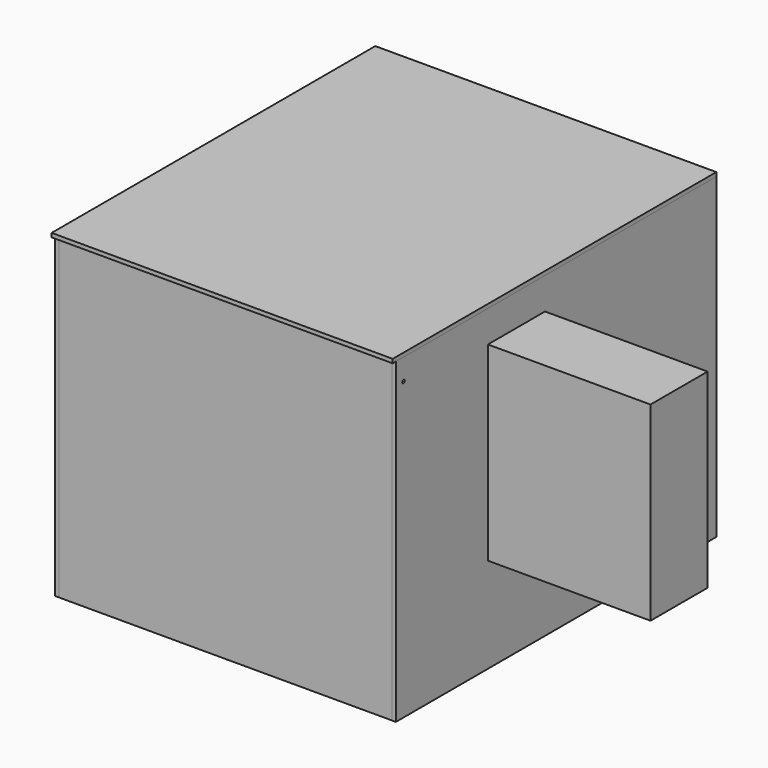
from build123d import *

# Parameters (mm, degrees)
F1_DEPTH  = 400
F3_DEPTH  = 5
F4_R      = 2
F5_DEPTH  = 5
F6_R      = 2
F7_DEPTH  = 5
F6_W      = 80
F6_H      = 230
F8_DEPTH  = 5
F6_W_2    = 89.9999934435
F6_H_2    = 239.9999934435
F9_DEPTH  = 200
F10_W     = 89.9999934435
F10_H     = 239.9999934435
F11_DEPTH = 5
F12_R     = 11.8011794923
F13_DEPTH = 84.9999967217
F0_W      = 420
F0_H      = 5
F14_DEPTH = 400
F15_W     = 420
F15_H     = 8.734613657
F16_DEPTH = 10


with BuildPart() as f1:
    # F0 (on Top) → F1 (new body)
    with BuildSketch(Plane.XY):
        Polygon((210, -245), (210, -250), (215, -250), (215, 255), (-215, 255), (-215, -250), (-210, -250), (-210, -245), (-210, 250), (210, 250), align=None)
    extrude(amount=F1_DEPTH)

    # F4 (on face) → F5 (cut, through all)
    with BuildSketch(Plane(origin=(-215, 0, 0), x_dir=(0, -1, 0), z_dir=(-1, 0, 0))):
        with Locations((238, 373)):
            Circle(F4_R)
    extrude(amount=-F5_DEPTH, mode=Mode.SUBTRACT)

    # F6 (on face) → F7 (cut, through all)
    with BuildSketch(Plane.YZ.offset(215)):
        with Locations((-238, 373)):
            Circle(F6_R)
    extrude(amount=-F7_DEPTH, mode=Mode.SUBTRACT)

    # F6 (on face) → F8 (cut, through all)
    with BuildSketch(Plane.YZ.offset(215)):
        with Locations((-60, 239.9999967217)):
            Rectangle(F6_W, F6_H)
    extrude(amount=-F8_DEPTH, mode=Mode.SUBTRACT)


with BuildPart() as f3:
    # F2 (on face) → F3 (new body)
    with BuildSketch(Plane.XY.offset(400)):
        Polygon((215, -255), (215, -250), (210, -250), (210, 250), (-210, 250), (-210, -250), (-215, -250), (-215, -255), align=None)
        Polygon((215, -250), (215, 255), (-215, 255), (-215, -250), (-210, -250), (-210, 250), (210, 250), (210, -250), align=None)
    extrude(amount=F3_DEPTH)


with BuildPart() as f9:
    # F6 (on face) → F9 (new body)
    with BuildSketch(Plane.YZ.offset(215)):
        with Locations((-60, 239.9999967217)):
            Rectangle(F6_W_2, F6_H_2)
        with Locations((-60, 239.9999967217)):
            Rectangle(F6_W, F6_H, mode=Mode.SUBTRACT)
    extrude(amount=F9_DEPTH)

    # F10 (on face) → F11 (join)
    with BuildSketch(Plane.YZ.offset(415)):
        with Locations((-60, 239.9999967217)):
            Rectangle(F10_W, F10_H)
    extrude(amount=F11_DEPTH)

    # F12 (on face) → F13 (join, through all)
    with BuildSketch(Plane.XZ.offset(104.9999967217)):
        with Locations((293.1988205077, 228.1988172294)):
            Circle(F12_R)
    extrude(amount=-F13_DEPTH)


with BuildPart() as f14:
    # F0 (on Top) → F14 (new body, through all)
    with BuildSketch(Plane.XY):
        with Locations((0, -247.5)):
            Rectangle(F0_W, F0_H)
    extrude(amount=F14_DEPTH)

    # F15 (on face) → F16 (join)
    with BuildSketch(Plane(origin=(0, -245, 0), x_dir=(-1, 0, 0), z_dir=(0, 1, 0))):
        with Locations((0, 373.1300085784)):
            Rectangle(F15_W, F15_H)
    extrude(amount=F16_DEPTH)


solid = Compound([f1.part, f3.part, f9.part, f14.part])
